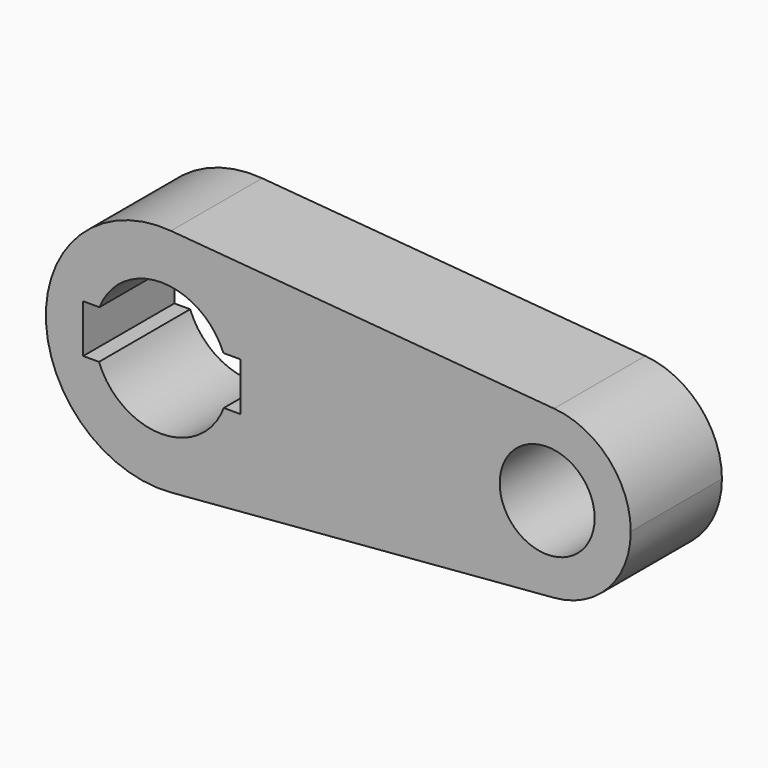
from build123d import *

# Parameters (mm, degrees)
F0_R     = 10.579099
F1_DEPTH = 25.4


with BuildPart() as f1:
    # F0 (on Front) → F1 (new body)
    with BuildSketch(Plane.XZ):
        with BuildLine():
            ThreePointArc((2.134409, -25.666202), (18.951001, -17.440446), (25.754798, 0))
            ThreePointArc((25.754798, 0), (18.951001, 17.440446), (2.134409, 25.666202))
            ThreePointArc((2.134409, 25.666202), (-25.754798, 0), (2.134409, -25.666202))
        make_face()
        with BuildLine():
            ThreePointArc((-13.813303, 5.493224), (0, 14.865492), (13.813303, 5.493224))
            Line((13.813303, 5.493224), (17.67385, 5.493224))
            Line((17.67385, 5.493224), (17.67385, -5.254388))
            Line((17.67385, -5.254388), (13.905907, -5.254388))
            ThreePointArc((13.905907, -5.254388), (0, -14.865492), (-13.905907, -5.254388))
            Line((-13.905907, -5.254388), (-17.435014, -5.254388))
            Line((-17.435014, -5.254388), (-17.435014, 5.493224))
            Line((-17.435014, 5.493224), (-13.813303, 5.493224))
        make_face(mode=Mode.SUBTRACT)
        with BuildLine():
            ThreePointArc((2.134409, 25.666202), (18.951001, 17.440446), (25.754798, 0))
            ThreePointArc((25.754798, 0), (18.951001, -17.440446), (2.134409, -25.666202))
            Line((2.134409, -25.666202), (87.524773, -18.565113))
            ThreePointArc((87.524773, -18.565113), (67.351695, 0), (87.524773, 18.565113))
            Line((87.524773, 18.565113), (2.134409, 25.666202))
        make_face()
        with BuildLine():
            ThreePointArc((104.610089, 0), (99.688704, 12.615184), (87.524773, 18.565113))
            ThreePointArc((87.524773, 18.565113), (67.351695, 0), (87.524773, -18.565113))
            ThreePointArc((87.524773, -18.565113), (99.688704, -12.615184), (104.610089, 0))
        make_face()
        with Locations((85.980892, 0)):
            Circle(F0_R, mode=Mode.SUBTRACT)
    extrude(amount=F1_DEPTH)


solid = f1.part
